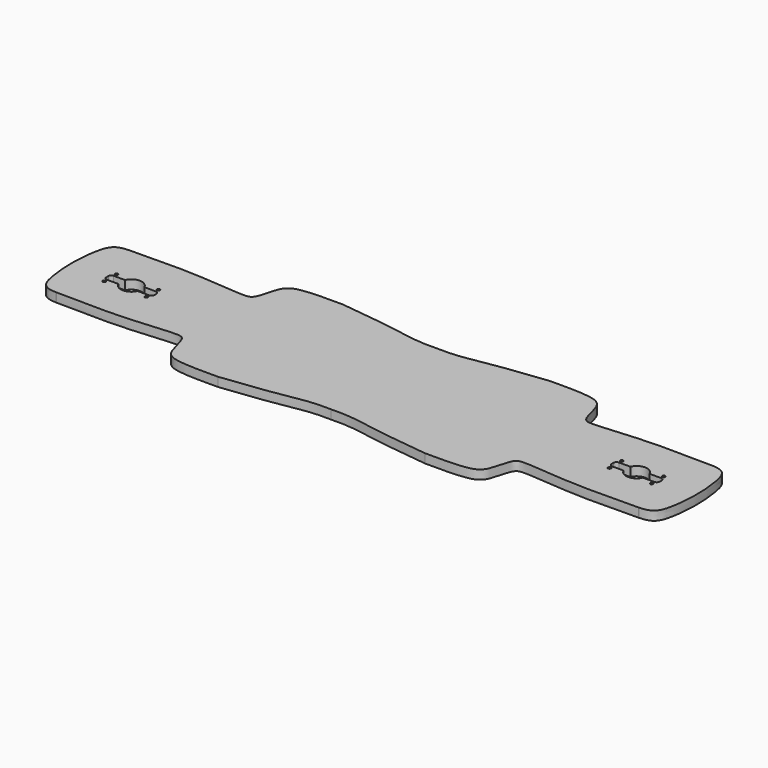
from build123d import *

# Parameters (mm, degrees)
F1_DEPTH = 15
F2_R     = 2.5
F3_DEPTH = 25


with BuildPart() as f1:
    # F0 (on Top) → F1 (new body)
    with BuildSketch(Plane.XY):
        with BuildLine():
            add(Edge.make_bspline(
                [(-520, 0), (-520, 15.9003654403), (-517.7306908559, 41.4380719701), (-510.0684638075, 70.839305794), (-496.2546402777, 75.3433776244), (-484.4922778909, 75.8334723447)],
                knots=[0, 0, 0, 0, 0.3951094656, 0.7024217918, 1, 1, 1, 1], degree=3))
            add(Edge.make_bspline(
                [(-520, 0), (-520, -15.9004198125), (-517.7306453579, -41.4377545697), (-510.068610043, -70.8399958028), (-496.2545453352, -75.341682848), (-484.4922778909, -75.8317736123)],
                knots=[0, 0, 0, 0, 0.3951108167, 0.7024241938, 1, 1, 1, 1], degree=3))
            Line((-484.4922778909, -75.8317736123), (-484.177025536, -75.8317736123))
            add(Edge.make_bspline(
                [(-484.177025536, -75.8317736123), (-448.4081006762, -76.1249578872), (-379.7836643938, -78.9032835211), (-292.5770901238, -68.4933699657), (-272.055358384, -72.0201049885), (-266.5042216878, -115.3712239239), (-244.4027546234, -130.7504883329), (-199.0540764716, -130), (-172.3281113105, -130)],
                knots=[0, 0, 0, 0, 0.2430337388, 0.4552614698, 0.5472912835, 0.6899502606, 0.803230749, 1, 1, 1, 1], degree=3))
            add(Edge.make_bspline(
                [(-172.3281113105, -130), (-144.2649763344, -126.3070692813), (-84.3834030663, -120.967336463), (-36.0389910638, -108.5126847029), (0, -109.7532883286)],
                knots=[0, 0, 0, 0, 0.4957214801, 1, 1, 1, 1], degree=3))
            add(Edge.make_bspline(
                [(172.3281113105, -130), (144.2649763344, -126.3070692813), (84.3834030663, -120.967336463), (36.0389910638, -108.5126847029), (0, -109.7532883286)],
                knots=[0, 0, 0, 0, 0.4957214801, 1, 1, 1, 1], degree=3))
            add(Edge.make_bspline(
                [(484.177025536, -75.8317736123), (448.4081006762, -76.1249578872), (379.7836643938, -78.9032835211), (292.5770901238, -68.4933699657), (272.055358384, -72.0201049885), (266.5042216878, -115.3712239239), (244.4027546234, -130.7504883329), (199.0540764716, -130), (172.3281113105, -130)],
                knots=[0, 0, 0, 0, 0.2430337388, 0.4552614698, 0.5472912835, 0.6899502606, 0.803230749, 1, 1, 1, 1], degree=3))
            Line((484.177025536, -75.8317736123), (484.4922778909, -75.8317736123))
            add(Edge.make_bspline(
                [(520, 0), (520, -15.9004198125), (517.7306453579, -41.4377545697), (510.068610043, -70.8399958028), (496.2545453352, -75.341682848), (484.4922778909, -75.8317736123)],
                knots=[0, 0, 0, 0, 0.3951108167, 0.7024241938, 1, 1, 1, 1], degree=3))
            add(Edge.make_bspline(
                [(520, 0), (520, 15.9003654403), (517.7306908559, 41.4380719701), (510.0684638075, 70.839305794), (496.2546402777, 75.3433776244), (484.4922778909, 75.8334723447)],
                knots=[0, 0, 0, 0, 0.3951094656, 0.7024217918, 1, 1, 1, 1], degree=3))
            Line((484.4922778909, 75.8334723447), (484.2135333809, 75.8334723447))
            add(Edge.make_bspline(
                [(484.2135333809, 75.8334723447), (448.4400823141, 76.1266937192), (379.7818647267, 78.9069766453), (292.577438612, 68.4917194427), (272.0555366186, 72.0226973092), (266.503953657, 115.3708548142), (244.4030472539, 130.750708745), (199.0530300662, 130), (172.3281113105, 130)],
                knots=[0, 0, 0, 0, 0.2430644923, 0.4552840581, 0.547312036, 0.6899624, 0.8032384531, 1, 1, 1, 1], degree=3))
            add(Edge.make_bspline(
                [(172.3281113105, 130), (144.2649763343, 126.3070692813), (84.3834030663, 120.967336463), (36.0389910638, 108.5126847029), (0, 109.7532883286)],
                knots=[0, 0, 0, 0, 0.4957214801, 1, 1, 1, 1], degree=3))
            add(Edge.make_bspline(
                [(-172.3281113105, 130), (-144.2649763343, 126.3070692813), (-84.3834030663, 120.967336463), (-36.0389910638, 108.5126847029), (0, 109.7532883286)],
                knots=[0, 0, 0, 0, 0.4957214801, 1, 1, 1, 1], degree=3))
            add(Edge.make_bspline(
                [(-484.2135333809, 75.8334723447), (-448.4400823141, 76.1266937192), (-379.7818647267, 78.9069766453), (-292.577438612, 68.4917194427), (-272.0555366186, 72.0226973092), (-266.503953657, 115.3708548142), (-244.4030472539, 130.750708745), (-199.0530300662, 130), (-172.3281113105, 130)],
                knots=[0, 0, 0, 0, 0.2430644923, 0.4552840581, 0.547312036, 0.6899624, 0.8032384531, 1, 1, 1, 1], degree=3))
            Line((-484.2135333809, 75.8334723447), (-484.4922778909, 75.8334723447))
        make_face()
    extrude(amount=F1_DEPTH)

    # F2 (on face) → F3 (cut)
    with BuildSketch(Plane.XY.offset(15)):
        with BuildLine():
            ThreePointArc((-436.0390149323, -7), (-420, -17.5), (-403.9609850677, -7))
            Line((-403.9609850677, -7), (-385, -7))
            ThreePointArc((-385, -7), (-381.4644660941, -5.5355339059), (-380, -2))
            Line((-380, -2), (-380, 2))
            ThreePointArc((-380, 2), (-381.4644660941, 5.5355339059), (-385, 7))
            Line((-385, 7), (-403.9609850677, 7))
            ThreePointArc((-403.9609850677, 7), (-420, 17.5), (-436.0390149323, 7))
            Line((-436.0390149323, 7), (-455, 7))
            ThreePointArc((-455, 7), (-458.5355339059, 5.5355339059), (-460, 2))
            Line((-460, 2), (-460, -2))
            ThreePointArc((-460, -2), (-458.5355339059, -5.5355339059), (-455, -7))
            Line((-455, -7), (-436.0390149323, -7))
        make_face()
        with BuildLine():
            Line((385, -7), (403.9609850677, -7))
            ThreePointArc((403.9609850677, -7), (420, -17.5), (436.0390149323, -7))
            Line((436.0390149323, -7), (455, -7))
            ThreePointArc((455, -7), (458.5355339059, -5.5355339059), (460, -2))
            Line((460, -2), (460, 2))
            ThreePointArc((460, 2), (458.5355339059, 5.5355339059), (455, 7))
            Line((455, 7), (436.0390149323, 7))
            ThreePointArc((436.0390149323, 7), (420, 17.5), (403.9609850677, 7))
            Line((403.9609850677, 7), (385, 7))
            ThreePointArc((385, 7), (381.4644660941, 5.5355339059), (380, 2))
            Line((380, 2), (380, -2))
            ThreePointArc((380, -2), (381.4644660941, -5.5355339059), (385, -7))
        make_face()
        with Locations((-385, 12.5979743898)):
            Circle(F2_R)
        with Locations((-385, -12.5979743898)):
            Circle(F2_R)
        with Locations((-455, -12.5979743898)):
            Circle(F2_R)
        with Locations((-455, 12.5979743898)):
            Circle(F2_R)
        with Locations((385, 12.5979743898)):
            Circle(F2_R)
        with Locations((385, -12.5979743898)):
            Circle(F2_R)
        with Locations((455, 12.5979743898)):
            Circle(F2_R)
        with Locations((455, -12.5979743898)):
            Circle(F2_R)
    extrude(amount=-F3_DEPTH, mode=Mode.SUBTRACT)


solid = f1.part
